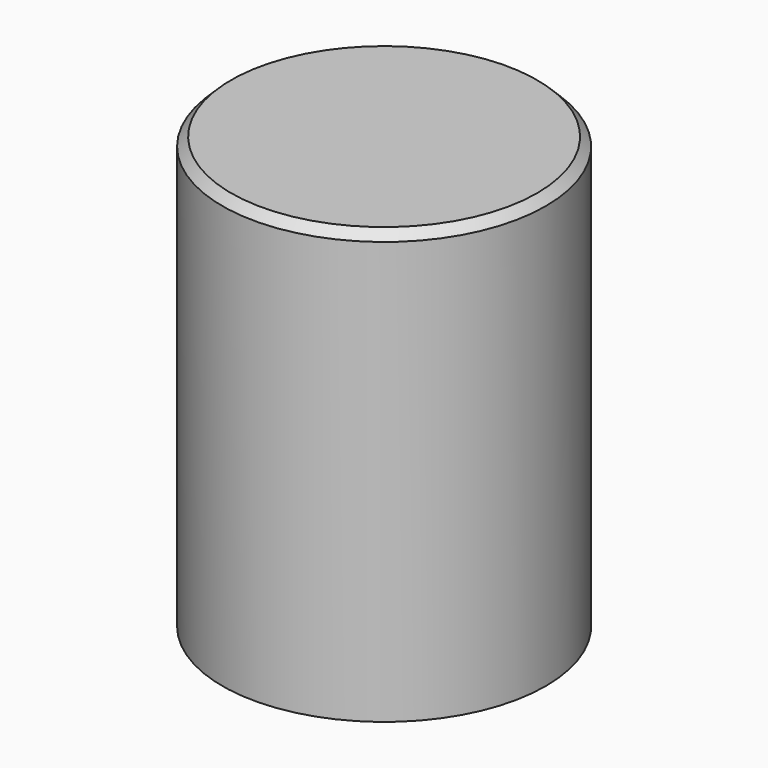
from build123d import *

# Parameters (mm, degrees)
F0_R     = 9.525
F1_DEPTH = 25.4
F2_SIZE  = 0.508
F3_T     = -0.508


with BuildPart() as f1:
    # F0 (on Top) → F1 (new body)
    with BuildSketch(Plane.XY):
        Circle(F0_R)
    extrude(amount=F1_DEPTH)

    # F2
    f2_edges = [f1.edges().sort_by_distance(p)[0] for p in [
        (-9.525, 0, 25.4),
    ]]
    chamfer(f2_edges, length=F2_SIZE)

    # F3
    f3_openings = [f1.faces().sort_by_distance(p)[0] for p in [
        (0, 0, 0),
    ]]
    offset(amount=F3_T, openings=f3_openings)


solid = f1.part
